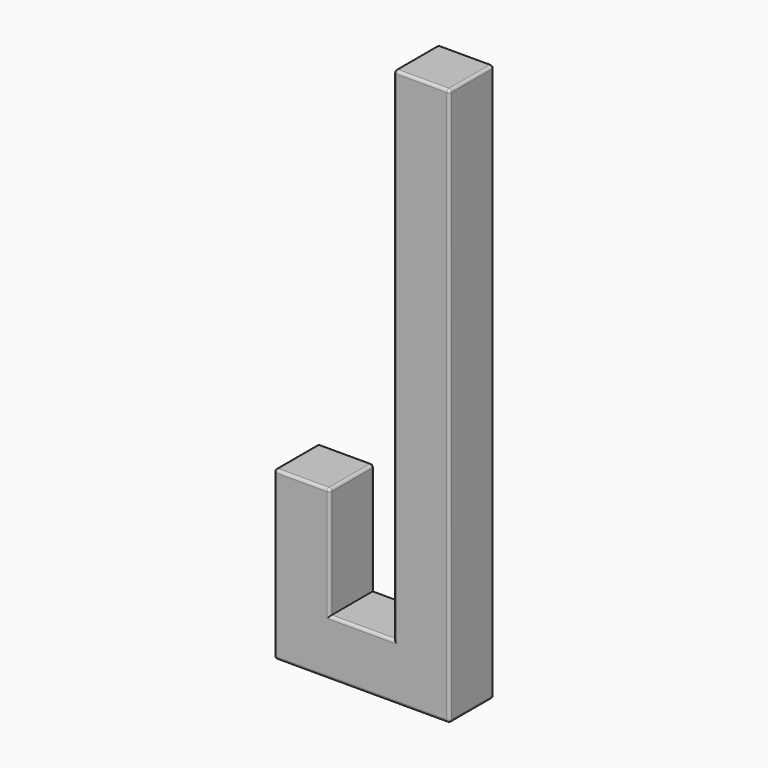
from build123d import *

# Parameters (mm, degrees)
F1_DEPTH = 100
F2_R     = 5


with BuildPart() as f1:
    # F0 (on Front) → F1 (new body)
    with BuildSketch(Plane.XZ):
        Polygon((0, -200), (0, 0), (-100, 0), (-100, -300), (215, -300), (215, 700), (115, 700), (115, -200), align=None)
    extrude(amount=F1_DEPTH)

    # F2
    f2_edges = [f1.edges().sort_by_distance(p)[0] for p in [
        (-100, -100, -150),
        (115, -100, 250),
        (57.5, -100, -200),
        (0, -100, -100),
        (-50, -100, 0),
        (-100, -50, 0),
        (-100, 0, -150),
        (-100, -50, -300),
        (57.5, -100, -300),
        (57.5, 0, -300),
        (57.5, 0, -200),
        (0, 0, -100),
        (-50, 0, 0),
        (0, -50, 0),
        (115, 0, 250),
        (215, -50, -300),
        (215, -50, 700),
        (165, 0, 700),
        (165, -100, 700),
        (115, -50, 700),
        (215, 0, 200),
        (215, -100, 200),
    ]]
    fillet(f2_edges, radius=F2_R)


solid = f1.part
